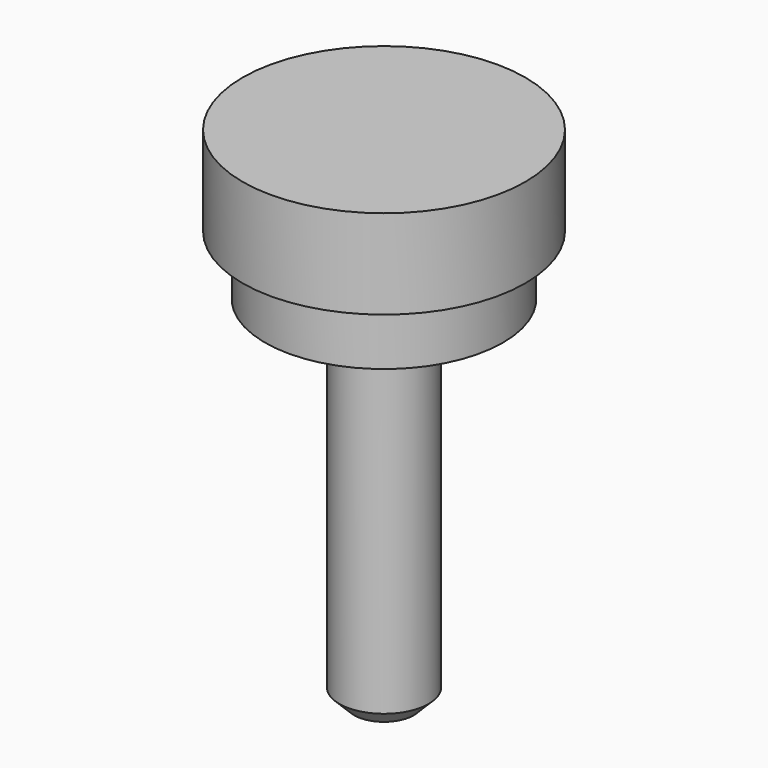
from build123d import *

# Parameters (mm, degrees)
F2_SIZE = 0.5


with BuildPart() as f1:
    # F0 (on Front) → F1 (revolve)
    with BuildSketch(Plane.XZ):
        Polygon((0, 0), (-4.75, 0), (-4.75, -3), (-4, -3), (-4, -5), (-1.5, -5), (-1.5, -17), (0, -17), align=None)
    revolve(axis=Axis((0, 0, -8.5), (0, 0, 1)))

    # F2
    f2_edges = [f1.edges().sort_by_distance(p)[0] for p in [
        (1.5, 0, -17),
    ]]
    chamfer(f2_edges, length=F2_SIZE)


solid = f1.part
